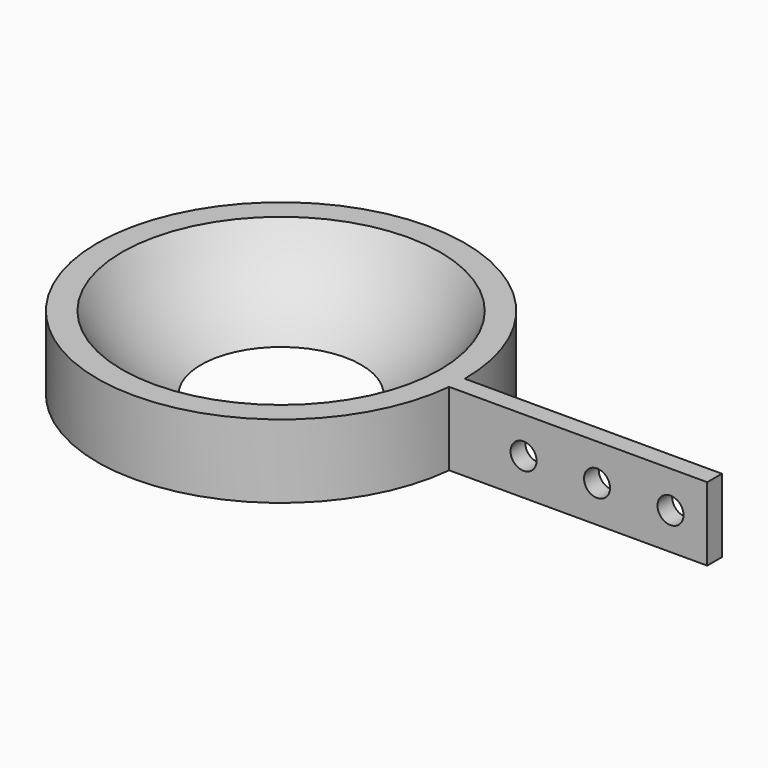
from build123d import *

# Parameters (mm, degrees)
F0_R     = 31.75
F1_DEPTH = 12.7
F5_W     = 3.175
F5_H     = 12.7
F8_D     = 4.4958


with BuildPart() as f1:
    # F0 (on Top) → F1 (new body)
    with BuildSketch(Plane.XY):
        Circle(F0_R)
    extrude(amount=F1_DEPTH)

    # F2 (on Front) → F3 (revolve, cut)
    with BuildSketch(Plane.XZ):
        with BuildLine():
            ThreePointArc((0, -3.175), (22.4506403027, 6.1243596973), (31.75, 28.575))
            ThreePointArc((31.75, 28.575), (22.4506403027, 51.0256403027), (0, 60.325))
            Line((0, 60.325), (0, -3.175))
        make_face()
    revolve(axis=Axis((0, 0, 28.575), (0, 0, -1)), mode=Mode.SUBTRACT)

    # F5 (on offset) → F6 (join, up to the next surface of F1)
    with BuildSketch(Plane.YZ.offset(76.2)):
        with Locations((-1.5875, 6.35)):
            Rectangle(F5_W, F5_H)
    extrude(until=Until.NEXT, dir=(-1, 0, 0))

    # F8 (through all)
    with Locations(Plane.XZ.offset(3.175)):
        with Locations((44.45, 6.35), (69.85, 6.35), (57.15, 6.35)):
            Hole(F8_D / 2)


solid = f1.part
